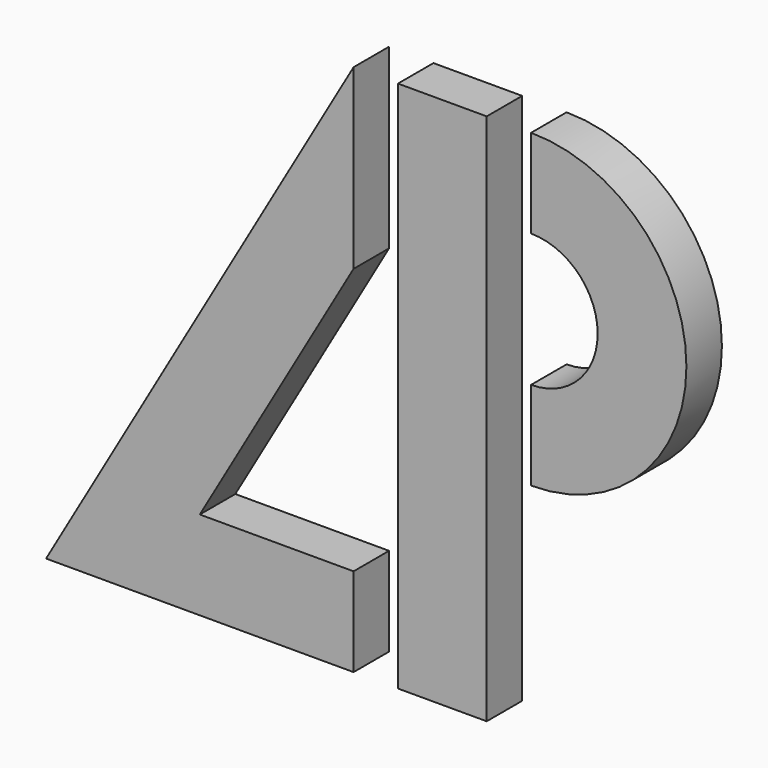
from build123d import *

# Parameters (mm, degrees)
F1_DEPTH = 6.35


with BuildPart() as f1:
    # F0 (on Front) → F1 (new body)
    with BuildSketch(Plane.XZ):
        Polygon((-12.7, 12.7), (-12.7, 38.1), (-56.694091, -38.1), (-12.7, -38.1), (-12.7, -25.4), (-34.697045, -25.4), align=None)
        Polygon((6.35, 38.1), (-6.35, 38.1), (-6.35, 12.7), (-6.35, -25.4), (-6.35, -38.1), (6.35, -38.1), (6.35, -6.35), (6.35, 6.35), (6.35, 25.4), align=None)
        with BuildLine():
            ThreePointArc((12.7, -6.35), (34.925, 15.875), (12.7, 38.1))
            Line((12.7, 38.1), (12.7, 25.4))
            ThreePointArc((12.7, 25.4), (22.225, 15.875), (12.7, 6.35))
            Line((12.7, 6.35), (12.7, -6.35))
        make_face()
    extrude(amount=F1_DEPTH)


solid = f1.part
